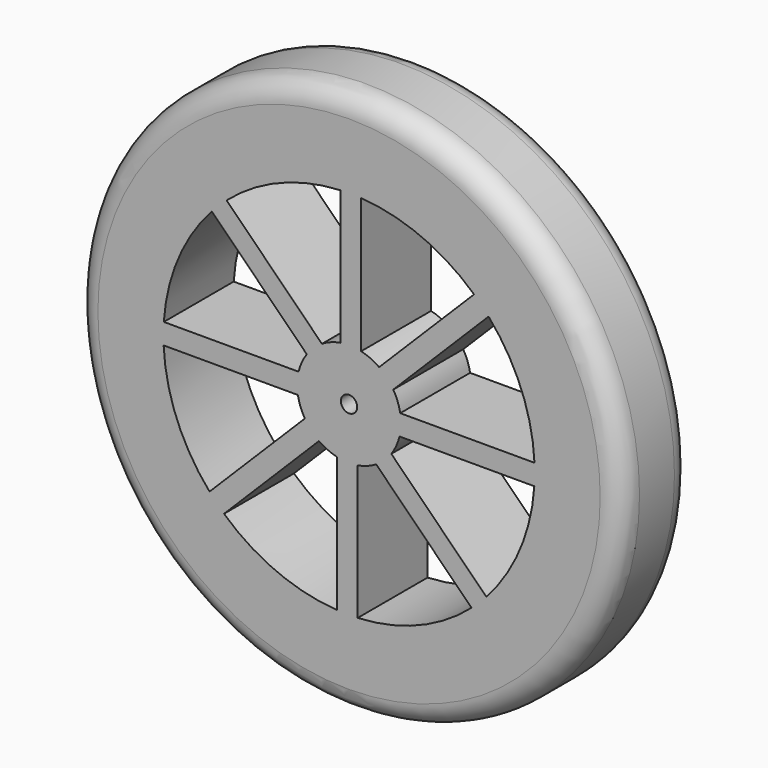
from build123d import *

# Parameters (mm, degrees)
F0_R     = 158.75
F0_R_2   = 4.7625
F1_DEPTH = 50.8
F2_R     = 12.7


with BuildPart() as f1:
    # F0 (on Front) → F1 (new body)
    with BuildSketch(Plane.XZ):
        with Locations((-53.951404, 5.726499)):
            Circle(F0_R)
        with BuildLine():
            Line((-122.349605, -69.769714), (-71.433156, -18.853265))
            ThreePointArc((-71.433156, -18.853265), (-66.435836, -21.731021), (-60.982177, -23.605133))
            Line((-60.982177, -23.605133), (-60.982177, -95.783764))
            Line((-60.982177, -95.783764), (-60.982177, -101.994301))
            ThreePointArc((-60.982177, -101.994301), (-96.191027, -93.616427), (-126.652027, -74.072136))
            Line((-126.652027, -74.072136), (-122.349605, -69.769714))
        make_face(mode=Mode.SUBTRACT)
        with BuildLine():
            Line((-155.70012, 0.707446), (-83.693387, 0.707446))
            ThreePointArc((-83.693387, 0.707446), (-82.194629, -4.861074), (-79.663508, -10.04259))
            Line((-79.663508, -10.04259), (-130.701507, -61.080589))
            Line((-130.701507, -61.080589), (-135.09302, -65.472102))
            ThreePointArc((-135.09302, -65.472102), (-154.065384, -34.651634), (-161.784663, 0.707446))
            Line((-161.784663, 0.707446), (-155.70012, 0.707446))
        make_face(mode=Mode.SUBTRACT)
        with BuildLine():
            Line((-48.932352, -96.022217), (-48.932352, -24.015484))
            ThreePointArc((-48.932352, -24.015484), (-43.363832, -22.516726), (-38.182316, -19.985605))
            Line((-38.182316, -19.985605), (12.855683, -71.023604))
            Line((12.855683, -71.023604), (17.247196, -75.415117))
            ThreePointArc((17.247196, -75.415117), (-13.573272, -94.387481), (-48.932352, -102.10676))
            Line((-48.932352, -102.10676), (-48.932352, -96.022217))
        make_face(mode=Mode.SUBTRACT)
        with BuildLine():
            Line((21.544808, -62.671702), (-29.371641, -11.755253))
            ThreePointArc((-29.371641, -11.755253), (-26.493885, -6.757933), (-24.619772, -1.304274))
            Line((-24.619772, -1.304274), (47.558858, -1.304274))
            Line((47.558858, -1.304274), (53.769395, -1.304274))
            ThreePointArc((53.769395, -1.304274), (45.391521, -36.513124), (25.84723, -66.974124))
            Line((25.84723, -66.974124), (21.544808, -62.671702))
        make_face(mode=Mode.SUBTRACT)
        with BuildLine():
            ThreePointArc((-78.531168, 23.20825), (-81.408924, 18.21093), (-83.283036, 12.757272))
            Line((-83.283036, 12.757272), (-155.461667, 12.757272))
            Line((-155.461667, 12.757272), (-161.672204, 12.757272))
            ThreePointArc((-161.672204, 12.757272), (-153.29433, 47.966121), (-133.750039, 78.427121))
            Line((-133.750039, 78.427121), (-129.447617, 74.124699))
            Line((-129.447617, 74.124699), (-78.531168, 23.20825))
        make_face(mode=Mode.SUBTRACT)
        with BuildLine():
            ThreePointArc((-125.150005, 86.868114), (-94.329537, 105.840478), (-58.970457, 113.559757))
            Line((-58.970457, 113.559757), (-58.970457, 107.475214))
            Line((-58.970457, 107.475214), (-58.970457, 35.468481))
            ThreePointArc((-58.970457, 35.468481), (-64.538977, 33.969723), (-69.720493, 31.438602))
            Line((-69.720493, 31.438602), (-120.758492, 82.476601))
            Line((-120.758492, 82.476601), (-125.150005, 86.868114))
        make_face(mode=Mode.SUBTRACT)
        with Locations((-53.951404, 5.726499)):
            Circle(F0_R_2, mode=Mode.SUBTRACT)
        with BuildLine():
            ThreePointArc((-24.209422, 10.745551), (-25.70818, 16.314071), (-28.239301, 21.495587))
            Line((-28.239301, 21.495587), (22.798698, 72.533586))
            Line((22.798698, 72.533586), (27.190211, 76.925099))
            ThreePointArc((27.190211, 76.925099), (46.162575, 46.104631), (53.881854, 10.745551))
            Line((53.881854, 10.745551), (47.797311, 10.745551))
            Line((47.797311, 10.745551), (-24.209422, 10.745551))
        make_face(mode=Mode.SUBTRACT)
        with BuildLine():
            Line((14.446796, 81.222711), (-36.469653, 30.306262))
            ThreePointArc((-36.469653, 30.306262), (-41.466973, 33.184018), (-46.920631, 35.058131))
            Line((-46.920631, 35.058131), (-46.920631, 107.236761))
            Line((-46.920631, 107.236761), (-46.920631, 113.447298))
            ThreePointArc((-46.920631, 113.447298), (-11.711782, 105.069424), (18.749218, 85.525133))
            Line((18.749218, 85.525133), (14.446796, 81.222711))
        make_face(mode=Mode.SUBTRACT)
    extrude(amount=F1_DEPTH)

    # F2
    f2_edges = [f1.edges().sort_by_distance(p)[0] for p in [
        (-212.701404, -50.8, 5.726499),
        (-212.701404, 0, 5.726499),
    ]]
    fillet(f2_edges, radius=F2_R)


solid = f1.part
